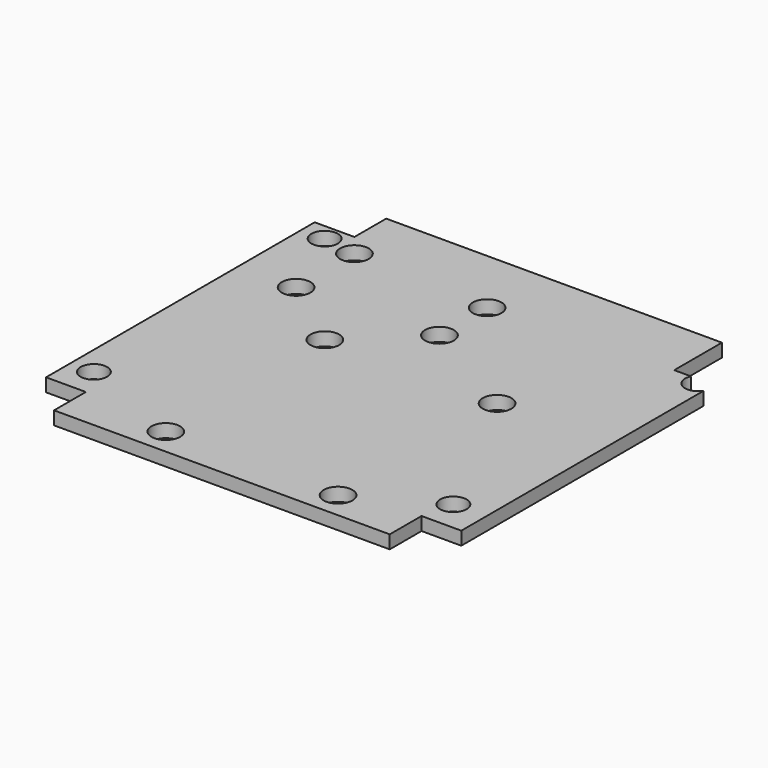
from build123d import *

# Parameters (mm, degrees)
CYLINDER046_R     = 3.25
CYLINDER046_DEPTH = 3
CYLINDER044_R     = 3.25
CYLINDER044_DEPTH = 3
CYLINDER047_R     = 3.25
CYLINDER047_DEPTH = 3
CYLINDER050_R     = 3.25
CYLINDER050_DEPTH = 3
CYLINDER049_R     = 3.25
CYLINDER049_DEPTH = 3
CYLINDER045_R     = 3.25
CYLINDER045_DEPTH = 3
CYLINDER048_R     = 3.25
CYLINDER048_DEPTH = 3
CYLINDER051_R     = 3.25
CYLINDER051_DEPTH = 3
BOX006_W          = 10
BOX006_H          = 10
BOX006_DEPTH      = 3
CYLINDER008_R     = 3
CYLINDER008_DEPTH = 3
CYLINDER009_R     = 3
CYLINDER009_DEPTH = 3
CYLINDER010_R     = 3
CYLINDER010_DEPTH = 3
CYLINDER011_R     = 3
CYLINDER011_DEPTH = 3
BOX003_W          = 12
BOX003_H          = 12
BOX003_DEPTH      = 3
BOX004_W          = 12
BOX004_H          = 12
BOX004_DEPTH      = 3
BOX005_W          = 12
BOX005_H          = 12
BOX005_DEPTH      = 3
BOX002_W          = 12
BOX002_H          = 12
BOX002_DEPTH      = 3
BOX001_W          = 94
BOX001_H          = 94
BOX001_DEPTH      = 3


with BuildPart() as cylinder046:
    # Cylinder046 → Cylinder046 (new body)
    with BuildSketch(Plane(origin=(32.5, 54, 0), x_dir=(1, 0, 0), z_dir=(0, 0, 1))):
        Circle(CYLINDER046_R)
    extrude(amount=CYLINDER046_DEPTH)


with BuildPart() as cylinder044:
    # Cylinder044 → Cylinder044 (new body)
    with BuildSketch(Plane(origin=(32.5, 9, 0), x_dir=(1, 0, 0), z_dir=(0, 0, 1))):
        Circle(CYLINDER044_R)
    extrude(amount=CYLINDER044_DEPTH)


with BuildPart() as cylinder047:
    # Cylinder047 → Cylinder047 (new body)
    with BuildSketch(Plane(origin=(47.25, 68, 0), x_dir=(1, 0, 0), z_dir=(0, 0, 1))):
        Circle(CYLINDER047_R)
    extrude(amount=CYLINDER047_DEPTH)


with BuildPart() as cylinder050:
    # Cylinder050 → Cylinder050 (new body)
    with BuildSketch(Plane(origin=(16, 66.5, 0), x_dir=(1, 0, 0), z_dir=(0, 0, 1))):
        Circle(CYLINDER050_R)
    extrude(amount=CYLINDER050_DEPTH)


with BuildPart() as cylinder049:
    # Cylinder049 → Cylinder049 (new body)
    with BuildSketch(Plane(origin=(47.25, 81.5, 0), x_dir=(1, 0, 0), z_dir=(0, 0, 1))):
        Circle(CYLINDER049_R)
    extrude(amount=CYLINDER049_DEPTH)


with BuildPart() as cylinder045:
    # Cylinder045 → Cylinder045 (new body)
    with BuildSketch(Plane(origin=(71.5, 9, 0), x_dir=(1, 0, 0), z_dir=(0, 0, 1))):
        Circle(CYLINDER045_R)
    extrude(amount=CYLINDER045_DEPTH)


with BuildPart() as cylinder048:
    # Cylinder048 → Cylinder048 (new body)
    with BuildSketch(Plane(origin=(71.5, 54, 0), x_dir=(1, 0, 0), z_dir=(0, 0, 1))):
        Circle(CYLINDER048_R)
    extrude(amount=CYLINDER048_DEPTH)


with BuildPart() as fusion026:
    # Cylinder051 → Cylinder051 (new body)
    with BuildSketch(Plane(origin=(16, 83, 0), x_dir=(1, 0, 0), z_dir=(0, 0, 1))):
        Circle(CYLINDER051_R)
    extrude(amount=CYLINDER051_DEPTH)

    # Fusion026: union Cylinder046, Cylinder044, Cylinder047, Cylinder050, Cylinder049, Cylinder045, Cylinder048
    add(cylinder046.part)
    add(cylinder044.part)
    add(cylinder047.part)
    add(cylinder050.part)
    add(cylinder049.part)
    add(cylinder045.part)
    add(cylinder048.part)


with BuildPart() as cube005:
    # Box006 → Box006 (new body)
    with BuildSketch(Plane(origin=(88, 83.5, 0), x_dir=(1, 0, 0), z_dir=(0, 0, 1))):
        with Locations((5, 5)):
            Rectangle(BOX006_W, BOX006_H)
    extrude(amount=BOX006_DEPTH)


with BuildPart() as main_ata_board_mounting_screws004:
    # Cylinder008 → Cylinder008 (new body)
    with BuildSketch(Plane(origin=(8.3, 18.9, 0), x_dir=(1, 0, 0), z_dir=(0, 0, 1))):
        Circle(CYLINDER008_R)
    extrude(amount=CYLINDER008_DEPTH)


with BuildPart() as main_ata_board_mounting_screws005:
    # Cylinder009 → Cylinder009 (new body)
    with BuildSketch(Plane(origin=(8.3, 84.2, 0), x_dir=(1, 0, 0), z_dir=(0, 0, 1))):
        Circle(CYLINDER009_R)
    extrude(amount=CYLINDER009_DEPTH)


with BuildPart() as main_ata_board_mounting_screws006:
    # Cylinder010 → Cylinder010 (new body)
    with BuildSketch(Plane(origin=(89.6, 19, 0), x_dir=(1, 0, 0), z_dir=(0, 0, 1))):
        Circle(CYLINDER010_R)
    extrude(amount=CYLINDER010_DEPTH)


with BuildPart() as ata_board_mounting_screwholes:
    # Cylinder011 → Cylinder011 (new body)
    with BuildSketch(Plane(origin=(94.5, 82.2, 0), x_dir=(1, 0, 0), z_dir=(0, 0, 1))):
        Circle(CYLINDER011_R)
    extrude(amount=CYLINDER011_DEPTH)

    # Fusion004: union Main ATA Board Mounting Screws004, Main ATA Board Mounting Screws005, Main ATA Board Mounting Screws006
    add(main_ata_board_mounting_screws004.part)
    add(main_ata_board_mounting_screws005.part)
    add(main_ata_board_mounting_screws006.part)


with BuildPart() as cube002:
    # Box003 → Box003 (new body)
    with BuildSketch(Plane(origin=(88, 0, 0), x_dir=(1, 0, 0), z_dir=(0, 0, 1))):
        with Locations((6, 6)):
            Rectangle(BOX003_W, BOX003_H)
    extrude(amount=BOX003_DEPTH)


with BuildPart() as cube003:
    # Box004 → Box004 (new body)
    with BuildSketch(Plane(origin=(88, 88, 0), x_dir=(1, 0, 0), z_dir=(0, 0, 1))):
        with Locations((6, 6)):
            Rectangle(BOX004_W, BOX004_H)
    extrude(amount=BOX004_DEPTH)


with BuildPart() as cube004:
    # Box005 → Box005 (new body)
    with BuildSketch(Plane(origin=(0, 88, 0), x_dir=(1, 0, 0), z_dir=(0, 0, 1))):
        with Locations((6, 6)):
            Rectangle(BOX005_W, BOX005_H)
    extrude(amount=BOX005_DEPTH)


with BuildPart() as fusion003:
    # Box002 → Box002 (new body)
    with BuildSketch(Plane.XY):
        with Locations((6, 6)):
            Rectangle(BOX002_W, BOX002_H)
    extrude(amount=BOX002_DEPTH)

    # Fusion003: union Cube002, Cube003, Cube004
    add(cube002.part)
    add(cube003.part)
    add(cube004.part)


with BuildPart() as backplate_with_nut_recesses:
    # Box001 → Box001 (new body)
    with BuildSketch(Plane(origin=(3, 3, 0), x_dir=(1, 0, 0), z_dir=(0, 0, 1))):
        with Locations((47, 47)):
            Rectangle(BOX001_W, BOX001_H)
    extrude(amount=BOX001_DEPTH)

    # Cut001: cut Fusion003
    add(fusion003.part, mode=Mode.SUBTRACT)

    # Cut002: cut ATA Board mounting screwholes
    add(ata_board_mounting_screwholes.part, mode=Mode.SUBTRACT)

    # Cut003: cut Cube005
    add(cube005.part, mode=Mode.SUBTRACT)

    # Cut014: cut Fusion026
    add(fusion026.part, mode=Mode.SUBTRACT)


solid = backplate_with_nut_recesses.part
